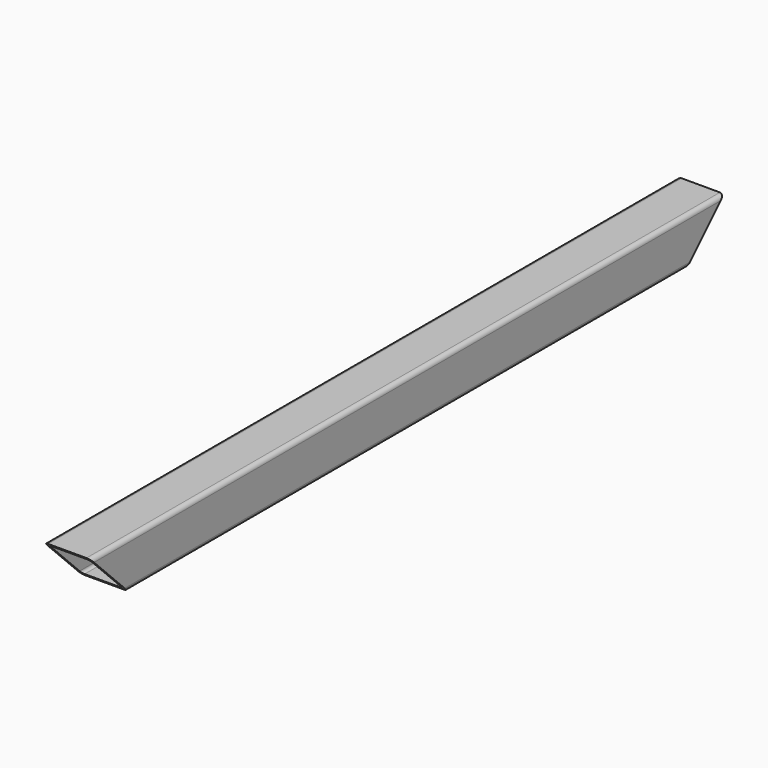
from build123d import *

# Parameters (mm, degrees)
F1_DEPTH = 847
F3_DEPTH = 50.001


with BuildPart() as f1:
    # F0 (on Front) → F1 (new body)
    with BuildSketch(Plane.XZ):
        with BuildLine():
            Line((45.5, 0), (4.5, 0))
            ThreePointArc((4.5, 0), (1.318019, -1.318019), (0, -4.5))
            Line((0, -4.5), (0, -45.5))
            ThreePointArc((0, -45.5), (1.318019, -48.681981), (4.5, -50))
            Line((4.5, -50), (45.5, -50))
            ThreePointArc((45.5, -50), (48.681981, -48.681981), (50, -45.5))
            Line((50, -45.5), (50, -4.5))
            ThreePointArc((50, -4.5), (48.681981, -1.318019), (45.5, 0))
        make_face()
        with BuildLine():
            ThreePointArc((3, -6), (3.87868, -3.87868), (6, -3))
            Line((6, -3), (44, -3))
            ThreePointArc((44, -3), (46.12132, -3.87868), (47, -6))
            Line((47, -6), (47, -44))
            ThreePointArc((47, -44), (46.12132, -46.12132), (44, -47))
            Line((44, -47), (6, -47))
            ThreePointArc((6, -47), (3.87868, -46.12132), (3, -44))
            Line((3, -44), (3, -6))
        make_face(mode=Mode.SUBTRACT)
    extrude(amount=F1_DEPTH)

    # F2 (on Right) → F3 (cut, through all)
    with BuildSketch(Plane.YZ):
        Polygon((29.289322, 0), (0, 0), (-45.5, -45.5), (-70.710678, -70.710678), (29.289322, -70.710678), align=None)
        Polygon((-776.289322, -70.710678), (-801.5, -45.5), (-847, 0), (-876.289322, 0), (-876.289322, -70.710678), align=None)
    extrude(amount=F3_DEPTH, mode=Mode.SUBTRACT)


solid = f1.part
